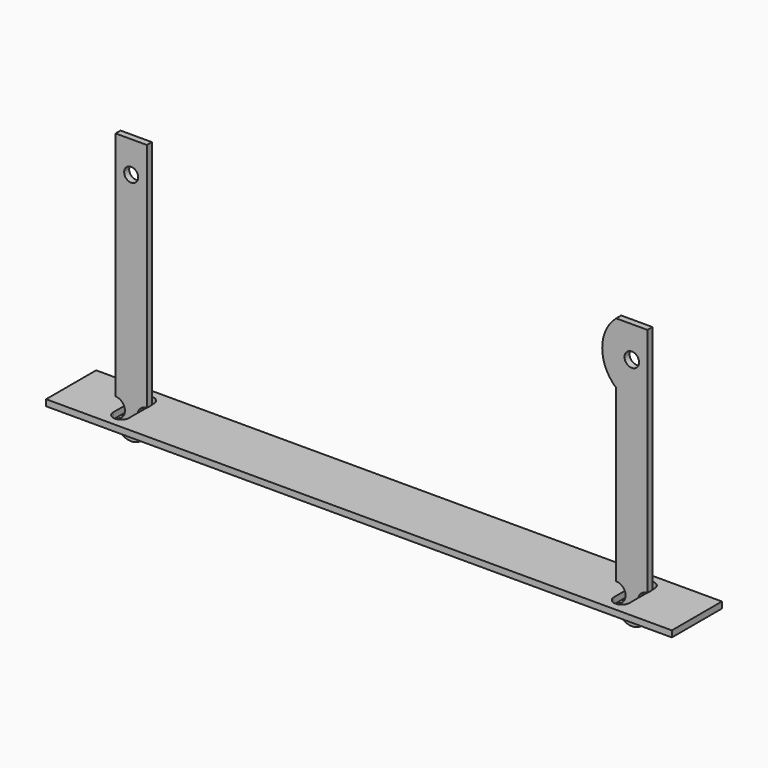
from build123d import *

# Parameters (mm, degrees)
F0_R     = 1.4226150659
F1_DEPTH = 0.635
F3_START = -48.26
F2_W     = 127
F2_H     = 12.7
F3_DEPTH = 1.27
F0_R_2   = 1.4727322888
F4_DEPTH = 0.635


with BuildPart() as f1:
    # F0 (on Front) → F1 (new body, symmetric)
    with BuildSketch(Plane.XZ):
        with BuildLine():
            Line((-47.625, 0), (-53.975, 0))
            Line((-53.975, 0), (-53.975, -46.99))
            ThreePointArc((-53.975, -46.99), (-52.07, -48.895), (-53.975, -50.8))
            ThreePointArc((-53.975, -50.8), (-50.8, -53.975), (-47.625, -50.8))
            ThreePointArc((-47.625, -50.8), (-49.53, -48.895), (-47.625, -46.99))
            Line((-47.625, -46.99), (-47.625, 0))
        make_face()
        with Locations((-50.8, -6.35)):
            Circle(F0_R, mode=Mode.SUBTRACT)
    extrude(amount=F1_DEPTH, both=True)


with BuildPart() as f3:
    # F2 (on Top) → F3 (new body)
    with BuildSketch(Plane.XY.offset(F3_START)):
        Rectangle(F2_W, F2_H)
        with BuildLine():
            Line((-49.2125, 3.175), (-49.2125, -3.175))
            ThreePointArc((-49.2125, -3.175), (-50.8, -4.7625), (-52.3875, -3.175))
            Line((-52.3875, -3.175), (-52.3875, 3.175))
            ThreePointArc((-52.3875, 3.175), (-50.8, 4.7625), (-49.2125, 3.175))
        make_face(mode=Mode.SUBTRACT)
        with BuildLine():
            ThreePointArc((49.2125, 3.175), (50.8, 4.7625), (52.3875, 3.175))
            Line((52.3875, 3.175), (52.3875, -3.175))
            ThreePointArc((52.3875, -3.175), (50.8, -4.7625), (49.2125, -3.175))
            Line((49.2125, -3.175), (49.2125, 3.175))
        make_face(mode=Mode.SUBTRACT)
    extrude(amount=-F3_DEPTH)


with BuildPart() as f4:
    # F0 (on Front) → F4 (new body, symmetric)
    with BuildSketch(Plane.XZ):
        with BuildLine():
            Line((53.975, 0), (47.625, 0))
            ThreePointArc((47.625, 0), (44.7936039156, -6.2090680003), (47.625, -12.4181360006))
            Line((47.625, -12.4181360006), (47.625, -46.99))
            ThreePointArc((47.625, -46.99), (49.53, -48.895), (47.625, -50.8))
            ThreePointArc((47.625, -50.8), (50.8, -53.975), (53.975, -50.8))
            ThreePointArc((53.975, -50.8), (52.07, -48.895), (53.975, -46.99))
            Line((53.975, -46.99), (53.975, 0))
        make_face()
        with Locations((50.8, -6.35)):
            Circle(F0_R_2, mode=Mode.SUBTRACT)
    extrude(amount=F4_DEPTH, both=True)


solid = Compound([f1.part, f3.part, f4.part])
